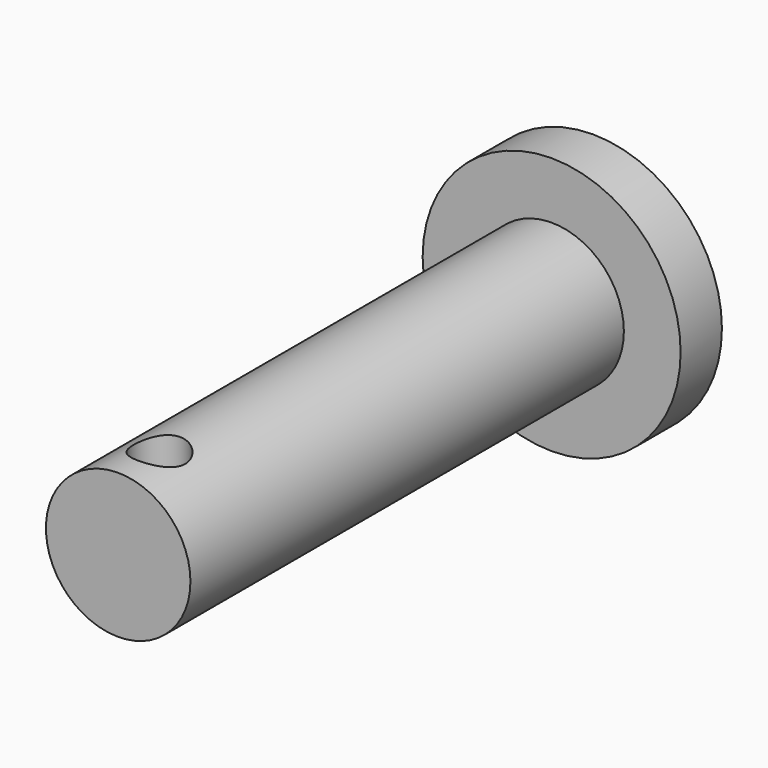
from build123d import *

# Parameters (mm, degrees)
SKETCH004_R       = 1
PAD004_DEPTH      = 10
CYLINDER009_R     = 2.8
CYLINDER009_DEPTH = 21
CYLINDER010_R     = 5
CYLINDER010_DEPTH = 2
CUT004_ROLL_ANGLE = 90


with BuildPart() as pad004:
    # Sketch004 → Pad004 (new body)
    with BuildSketch(Plane(origin=(0, 4.2, 21), x_dir=(1, 0, 0), z_dir=(0, -1, 0))):
        Circle(SKETCH004_R)
    extrude(amount=PAD004_DEPTH)


with BuildPart() as eje:
    # Cylinder009 → Cylinder009 (new body)
    with BuildSketch(Plane.XY.offset(2)):
        Circle(CYLINDER009_R)
    extrude(amount=CYLINDER009_DEPTH)


with BuildPart() as eje_full:
    # Cylinder010 → Cylinder010 (new body)
    with BuildSketch(Plane.XY):
        Circle(CYLINDER010_R)
    extrude(amount=CYLINDER010_DEPTH)

    # Fusion009: union Eje
    add(eje.part)

    # Cut004: cut Pad004
    add(pad004.part, mode=Mode.SUBTRACT)


with BuildPart() as eje_full_1:
    # Cut004 roll: moved
    add(eje_full.part.rotate(Axis((0, 0, 0), (1, 0, 0)), CUT004_ROLL_ANGLE))


with BuildPart() as eje_full_2:
    # Cut004 placement: moved
    add(eje_full_1.part.moved(Location((185, 17, 8.5))))


solid = eje_full_2.part
